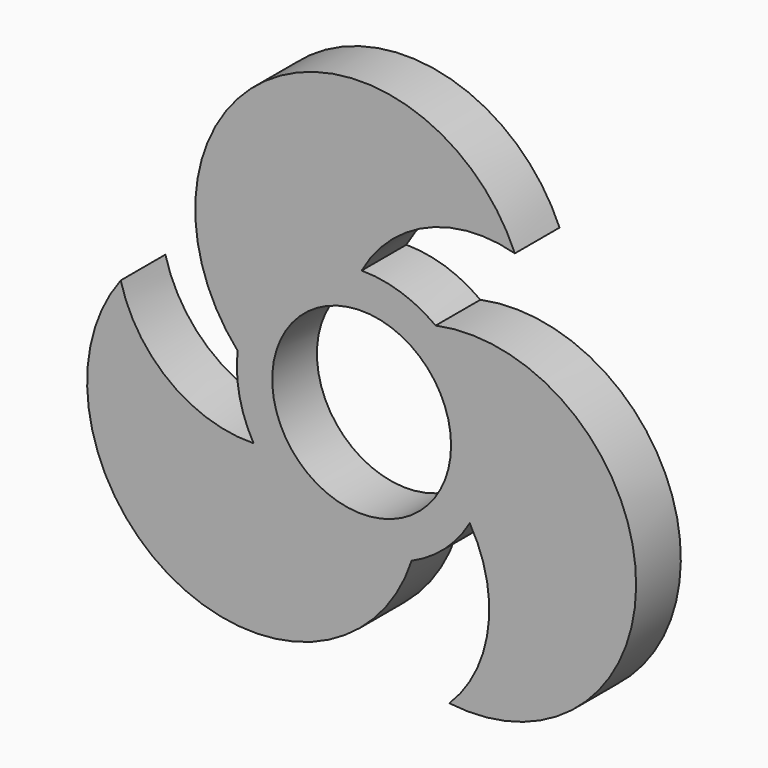
from build123d import *

# Parameters (mm, degrees)
F0_R     = 11.0998
F1_DEPTH = 6.9342


with BuildPart() as f1:
    # F0 (on Front) → F1 (new body)
    with BuildSketch(Plane.XZ):
        with BuildLine():
            ThreePointArc((-15.398407, 1.721594), (-10.329566, 11.548806), (0, 15.494349))
            ThreePointArc((0, 15.494349), (8.110227, 22.829774), (19.021591, 23.555291))
            ThreePointArc((19.021591, 23.555291), (-11.066139, 32.9397), (-15.398407, 1.721594))
        make_face()
        with BuildLine():
            ThreePointArc((9.190148, 12.474615), (13.828778, 6.988543), (15.494349, 0))
            ThreePointArc((15.494349, 0), (14.966391, -4.010232), (13.418499, -7.747174))
            ThreePointArc((13.418499, -7.747174), (15.716051, -18.438549), (10.888685, -28.250826))
            ThreePointArc((10.888685, -28.250826), (34.059686, -6.886292), (9.190148, 12.474615))
        make_face()
        with BuildLine():
            ThreePointArc((13.418499, -7.747174), (14.966391, -4.010232), (15.494349, 0))
            ThreePointArc((15.494349, 0), (13.828778, 6.988543), (9.190148, 12.474615))
            ThreePointArc((9.190148, 12.474615), (4.836776, 14.720069), (0, 15.494349))
            ThreePointArc((0, 15.494349), (-10.329566, 11.548806), (-15.398407, 1.721594))
            ThreePointArc((-15.398407, 1.721594), (-15.166342, -3.171264), (-13.418499, -7.747174))
            ThreePointArc((-13.418499, -7.747174), (-4.836776, -14.720069), (6.208259, -14.196209))
            ThreePointArc((6.208259, -14.196209), (10.329566, -11.548806), (13.418499, -7.747174))
        make_face()
        Circle(F0_R, mode=Mode.SUBTRACT)
        with BuildLine():
            ThreePointArc((-29.910276, 4.695536), (-22.993547, -26.053408), (6.208259, -14.196209))
            ThreePointArc((6.208259, -14.196209), (-4.836776, -14.720069), (-13.418499, -7.747174))
            ThreePointArc((-13.418499, -7.747174), (-23.826278, -4.391225), (-29.910276, 4.695536))
        make_face()
    extrude(amount=F1_DEPTH)


solid = f1.part
